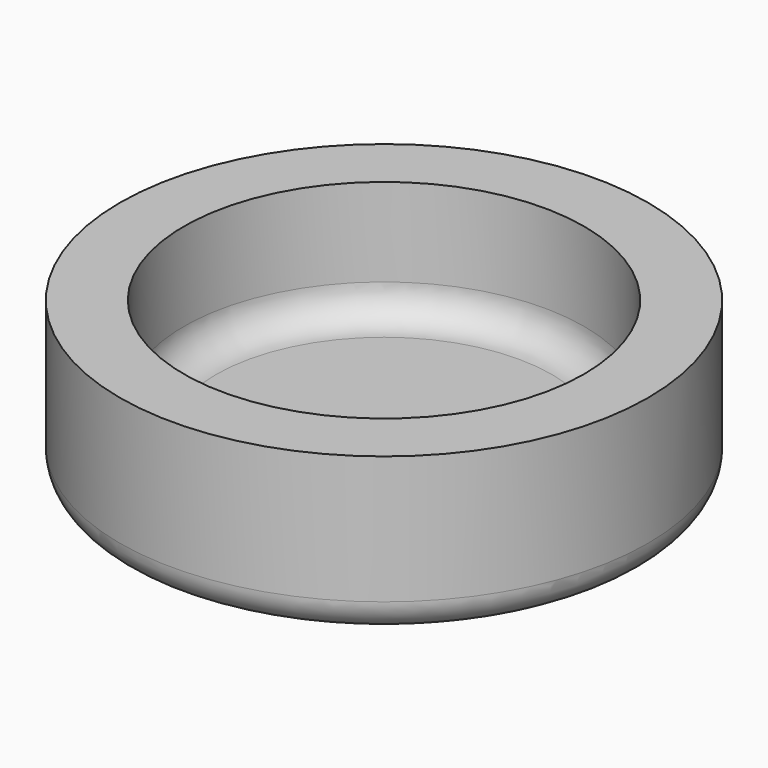
from build123d import *

# Parameters (mm, degrees)
F0_R     = 8.25
F1_DEPTH = 5
F2_R     = 6.25
F3_DEPTH = 3.75
F4_R     = 1


with BuildPart() as f1:
    # F0 (on Top) → F1 (new body)
    with BuildSketch(Plane.XY):
        Circle(F0_R)
    extrude(amount=F1_DEPTH)

    # F2 (on face) → F3 (cut)
    with BuildSketch(Plane.XY.offset(5)):
        Circle(F2_R)
    extrude(amount=-F3_DEPTH, mode=Mode.SUBTRACT)

    # F4
    f4_edges = [f1.edges().sort_by_distance(p)[0] for p in [
        (-8.25, 0, 0),
        (-6.25, 0, 1.25),
    ]]
    fillet(f4_edges, radius=F4_R)


solid = f1.part
